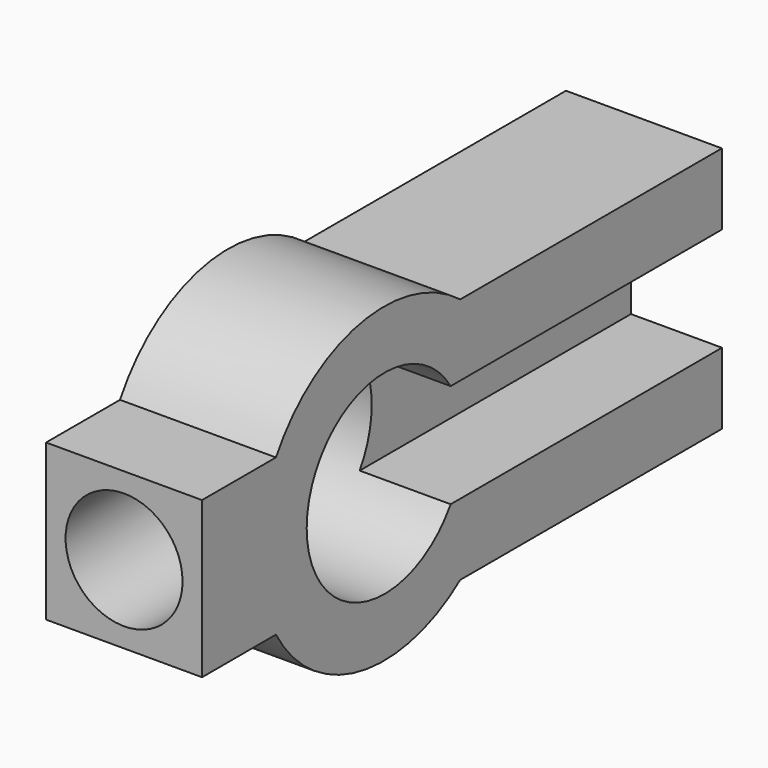
from build123d import *

# Parameters (mm, degrees)
F0_W      = 24
F0_H      = 24
F1_DEPTH  = 20
F3_R      = 24
F3_R_2    = 15
F4_DEPTH  = 24
F6_DEPTH  = 24
F2_R      = 15
F7_DEPTH  = 24
F8_W      = 14
F8_H      = 16
F9_DEPTH  = 65
F10_R     = 9
F11_DEPTH = 35


with BuildPart() as f1:
    # F0 (on Front) → F1 (new body)
    with BuildSketch(Plane.XZ):
        with Locations((12, 12)):
            Rectangle(F0_W, F0_H)
    extrude(amount=-F1_DEPTH)

    # F3 (on face) → F4 (join)
    with BuildSketch(Plane.YZ):
        with Locations((35, 12)):
            Circle(F3_R)
        with Locations((35.131581, 12)):
            Circle(F3_R_2, mode=Mode.SUBTRACT)
    extrude(amount=F4_DEPTH)

    # F5 (on Right) → F6 (join)
    with BuildSketch(Plane.YZ):
        Polygon((35, 31), (35, 0), (35, -7), (100, -7), (100, 31), align=None)
    extrude(amount=F6_DEPTH)

    # F2 (on Right) → F7 (cut)
    with BuildSketch(Plane.YZ):
        with Locations((35.131581, 12)):
            Circle(F2_R)
    extrude(amount=F7_DEPTH, mode=Mode.SUBTRACT)

    # F8 (on face) → F9 (cut)
    with BuildSketch(Plane(origin=(0, 100, 0), x_dir=(-1, 0, 0), z_dir=(0, 1, 0))):
        with Locations((-17, 12)):
            Rectangle(F8_W, F8_H)
    extrude(amount=-F9_DEPTH, mode=Mode.SUBTRACT)

    # F10 (on face) → F11 (cut)
    with BuildSketch(Plane.XZ):
        with Locations((12, 12)):
            Circle(F10_R)
    extrude(amount=-F11_DEPTH, mode=Mode.SUBTRACT)


solid = f1.part
